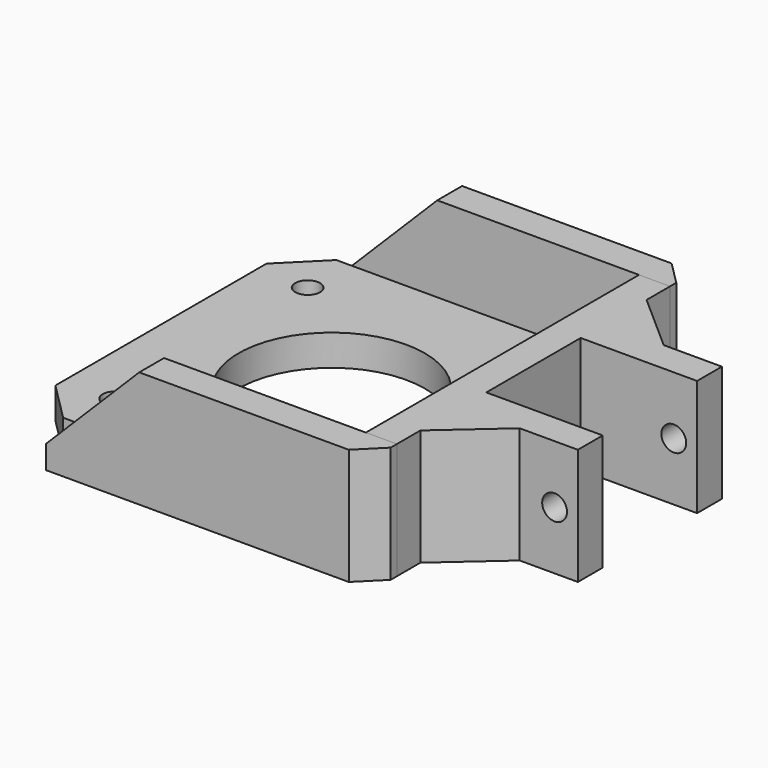
from build123d import *

# Parameters (mm, degrees)
F0_W       = 44
F0_H       = 44
F0_R       = 1.6
F0_R_2     = 12
F1_DEPTH   = 4
F2_SIZE    = 5
F4_DEPTH   = 15
F5_W       = 4
F5_H       = 4
F5_W_2     = 38
F6_DEPTH   = 15
F7_SIZE    = 12
F7_2_SIZE  = 12
F9_DEPTH   = 25
F10_SIZE   = 3
F10_2_SIZE = 3


with BuildPart() as f1:
    # F0 (on Top) → F1 (new body)
    with BuildSketch(Plane.XY):
        Rectangle(F0_W, F0_H)
        with Locations((-15.5, -15.5)):
            Circle(F0_R, mode=Mode.SUBTRACT)
        with Locations((15.5, -15.5)):
            Circle(F0_R, mode=Mode.SUBTRACT)
        with Locations((-15.5, 15.5)):
            Circle(F0_R, mode=Mode.SUBTRACT)
        Circle(F0_R_2, mode=Mode.SUBTRACT)
        with Locations((15.5, 15.5)):
            Circle(F0_R, mode=Mode.SUBTRACT)
    extrude(amount=F1_DEPTH)

    # F2
    f2_edges = [f1.edges().sort_by_distance(p)[0] for p in [
        (-22, 22, 2),
        (-22, -22, 2),
    ]]
    chamfer(f2_edges, length=F2_SIZE)


with BuildPart() as f4:
    # F3 (on Top) → F4 (new body)
    with BuildSketch(Plane.XY):
        Polygon((26, 11.6), (26, 7.6), (41, 7.6), (41, 11.6), (33.5, 11.6), align=None)
        Polygon((26, 18.2143782777), (26, 11.6), (33.5, 11.6), align=None)
        Polygon((41, -7.6), (26, -7.6), (26, -11.6), (33.5, -11.6), (41, -11.6), align=None)
        Polygon((33.5, -11.6), (26, -11.6), (26, -18.2143782777), align=None)
        Polygon((26, 0), (22, 0), (22, -22), (25.6346632391, -22), (26, -22), (26, -18.9712997526), (26, -18.2143782777), (26, -11.6), (26, -7.6), align=None)
        Polygon((22, 22), (22, 0), (26, 0), (26, 7.6), (26, 11.6), (26, 18.2143782777), (26, 21.6064173728), (26, 22), align=None)
    extrude(amount=F4_DEPTH)

    # F8 (on face) → F9 (cut)
    with BuildSketch(Plane(origin=(0, 11.6, 0), x_dir=(-1, 0, 0), z_dir=(0, 1, 0))):
        with BuildLine():
            ThreePointArc((-36.4, 7.5), (-38, 9.1), (-39.6, 7.5))
            ThreePointArc((-39.6, 7.5), (-38, 5.9), (-36.4, 7.5))
        make_face()
    extrude(amount=-F9_DEPTH, mode=Mode.SUBTRACT)


with BuildPart() as f6:
    # F5 (on face) → F6 (new body)
    with BuildSketch(Plane(origin=(0, 0, 0), x_dir=(1, 0, 0), z_dir=(0, 0, -1))):
        with Locations((24, -24)):
            Rectangle(F5_W, F5_H)
        with Locations((3, -24)):
            Rectangle(F5_W_2, F5_H)
    extrude(amount=-F6_DEPTH)

    # F7#2
    f7_2_edges = [f6.edges().sort_by_distance(p)[0] for p in [
        (-16, 24, 15),
    ]]
    chamfer(f7_2_edges, length=F7_2_SIZE)

    # F10#2
    f10_2_edges = [f6.edges().sort_by_distance(p)[0] for p in [
        (26, 26, 7.5),
    ]]
    chamfer(f10_2_edges, length=F10_2_SIZE)


with BuildPart() as f6b:
    # F5 (on face) → F6, piece 2 (new body)
    with BuildSketch(Plane(origin=(0, 0, 0), x_dir=(1, 0, 0), z_dir=(0, 0, -1))):
        with Locations((3, 24)):
            Rectangle(F5_W_2, F5_H)
        with Locations((24, 24)):
            Rectangle(F5_W, F5_H)
    extrude(amount=-F6_DEPTH)

    # F7
    f7_edges = [f6b.edges().sort_by_distance(p)[0] for p in [
        (-16, -24, 15),
    ]]
    chamfer(f7_edges, length=F7_SIZE)

    # F10
    f10_edges = [f6b.edges().sort_by_distance(p)[0] for p in [
        (26, -26, 7.5),
    ]]
    chamfer(f10_edges, length=F10_SIZE)


solid = Compound([f1.part, f4.part, f6.part, f6b.part])
